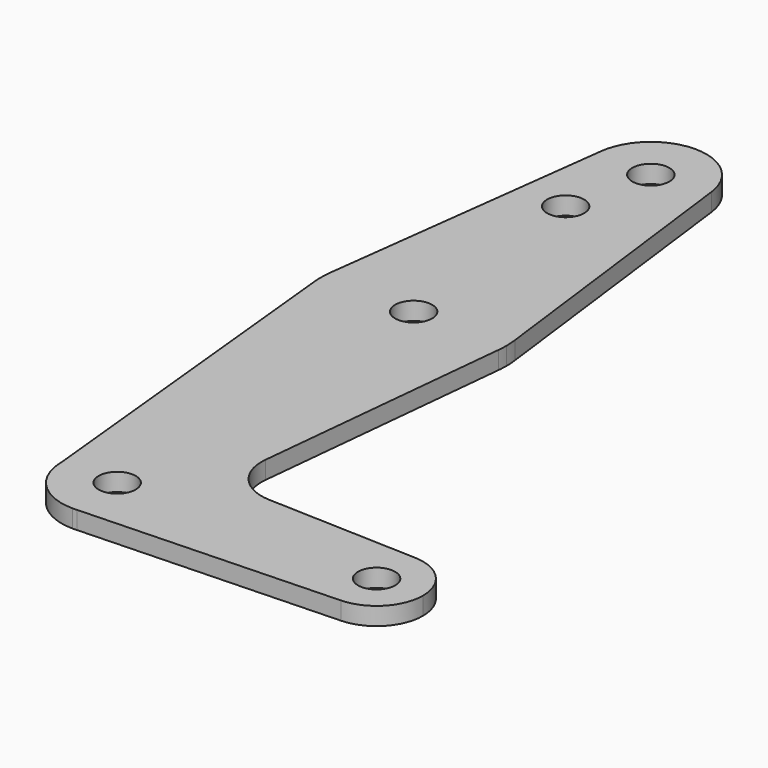
from build123d import *

# Parameters (mm, degrees)
F0_R     = 3.175
F1_DEPTH = 3.048


with BuildPart() as f1:
    # F0 (on Top) → F1 (new body)
    with BuildSketch(Plane.XY):
        with BuildLine():
            ThreePointArc((44.7334821429, 7.9324362036), (36.5125000183, 0.0005387766), (44.7324052746, -7.9324746146))
            ThreePointArc((44.7324052746, -7.9324746146), (50.1616327839, -5.5119104847), (52.3875, 0))
            ThreePointArc((52.3875, 0), (50.1620069047, 5.5115227815), (44.7334821429, 7.9324362036))
        make_face()
        with Locations((44.45, 0)):
            Circle(F0_R, mode=Mode.SUBTRACT)
        with BuildLine():
            ThreePointArc((0.6773435479, -9.500885786), (6.9705567315, -6.4912990883), (9.525, 0))
            ThreePointArc((9.525, 0), (0, 9.525), (-9.525, 0))
            ThreePointArc((-9.525, 0), (-6.7351920908, -6.7351920908), (0, -9.525))
            Line((0, -9.525), (0.6773435479, -9.500885786))
        make_face()
        Circle(F0_R, mode=Mode.SUBTRACT)
        with BuildLine():
            ThreePointArc((-9.525, 0), (0, 9.525), (9.525, 0))
            ThreePointArc((9.525, 0), (6.9705567315, -6.4912990883), (0.6773435479, -9.500885786))
            Line((0.6773435479, -9.500885786), (44.7324052746, -7.9324746146))
            ThreePointArc((44.7324052746, -7.9324746146), (36.5125000183, 0.0005387766), (44.7334821429, 7.9324362036))
            Line((44.7334821429, 7.9324362036), (18.9676000005, 8.8532337108))
            ThreePointArc((18.9676000005, 8.8532337108), (13.2611998974, 11.5713591498), (11.3411865923, 17.5933818124))
            Line((11.3411865923, 17.5933818124), (15.7954255641, 61.9125))
            ThreePointArc((15.7954255641, 61.9125), (0.0060905531, 47.6250011683), (-15.7942028036, 61.9003804205))
            Line((-15.7942028036, 61.9003804205), (-9.525, 0))
        make_face()
        with BuildLine():
            Line((-9.4502929642, 115.490625), (-15.7504882737, 65.484375))
            ThreePointArc((-15.7504882737, 65.484375), (0, 79.375), (15.7504882737, 65.484375))
            Line((15.7504882737, 65.484375), (9.4502929642, 115.490625))
            ThreePointArc((9.4502929642, 115.490625), (9.5063048942, 114.896483242), (9.525, 114.3))
            ThreePointArc((9.525, 114.3), (-0.596483242, 104.7936951058), (-9.4502929642, 115.490625))
        make_face()
        with Locations((-3.175, 100.0252)):
            Circle(F0_R, mode=Mode.SUBTRACT)
        with BuildLine():
            ThreePointArc((-15.7504882737, 65.484375), (-15.8738192656, 63.6936154008), (-15.7942028036, 61.9003804205))
            ThreePointArc((-15.7942028036, 61.9003804205), (0.0060905531, 47.6250011683), (15.7954255641, 61.9125))
            ThreePointArc((15.7954255641, 61.9125), (15.8550939106, 62.7052534459), (15.875, 63.5))
            ThreePointArc((15.875, 63.5), (15.8438414904, 64.4941387366), (15.7504882737, 65.484375))
            ThreePointArc((15.7504882737, 65.484375), (0, 79.375), (-15.7504882737, 65.484375))
        make_face()
        with Locations((0, 63.5)):
            Circle(F0_R, mode=Mode.SUBTRACT)
        with BuildLine():
            ThreePointArc((0, -9.525), (0.3388863295, -9.5189695375), (0.6773435479, -9.500885786))
            Line((0.6773435479, -9.500885786), (0, -9.525))
        make_face()
        with BuildLine():
            ThreePointArc((9.4502929642, 115.490625), (0, 123.825), (-9.4502929642, 115.490625))
            ThreePointArc((-9.4502929642, 115.490625), (-0.596483242, 104.7936951058), (9.525, 114.3))
            ThreePointArc((9.525, 114.3), (9.5063048942, 114.896483242), (9.4502929642, 115.490625))
        make_face()
        with Locations((0, 114.3)):
            Circle(F0_R, mode=Mode.SUBTRACT)
    extrude(amount=F1_DEPTH)


solid = f1.part
